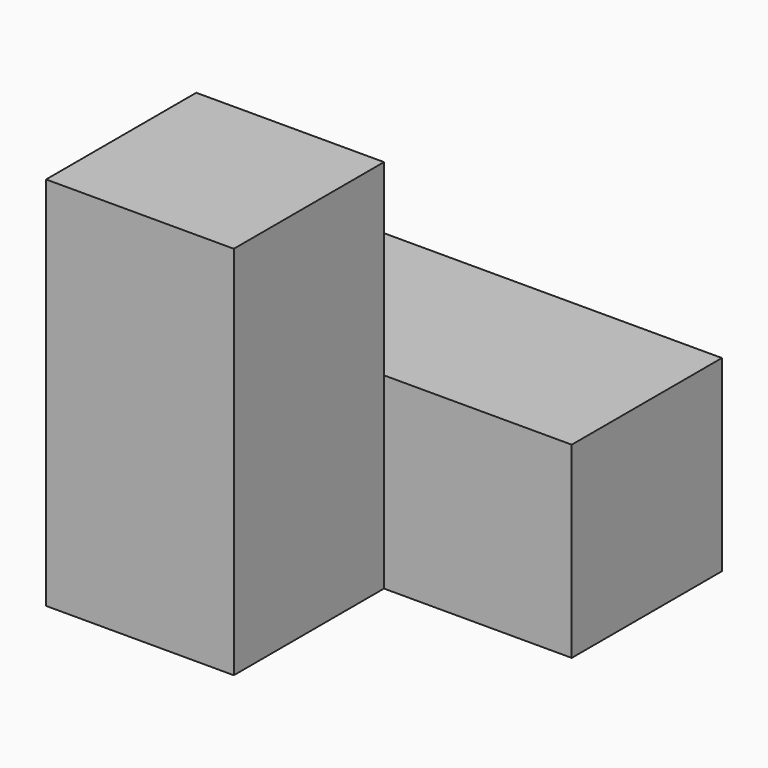
from build123d import *

# Parameters (mm, degrees)
F1_DEPTH = 19.05
F0_W     = 19.05
F0_H     = 19.05
F2_DEPTH = 38.1


with BuildPart() as f1:
    # F0 (on Right) → F1 (new body)
    with BuildSketch(Plane.YZ):
        Polygon((-17.736653, 11.326628), (-36.786653, 11.326628), (-36.786653, -26.773372), (-17.736653, -26.773372), (-17.736653, -7.723372), align=None)
    extrude(amount=F1_DEPTH)

    # F0 (on Right) → F2 (join)
    with BuildSketch(Plane.YZ):
        with Locations((-8.211653, -17.248372)):
            Rectangle(F0_W, F0_H)
    extrude(amount=F2_DEPTH)


solid = f1.part
